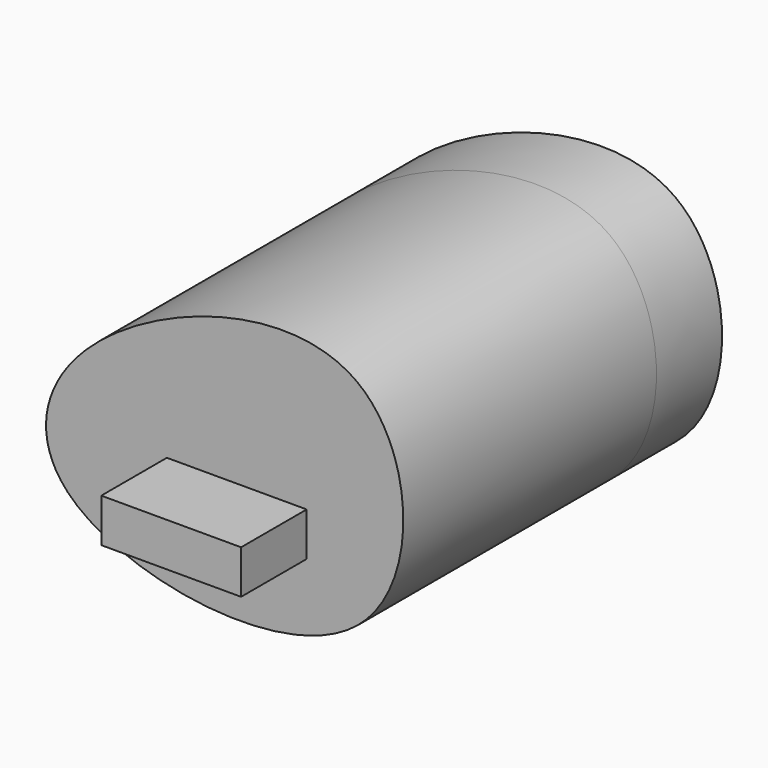
from build123d import *

# Parameters (mm, degrees)
F1_DEPTH = 25
F2_DEPTH = 96.5
F3_W     = 42.6337057725
F3_H     = 13.297191821
F4_DEPTH = 25


with BuildPart() as f1:
    # F0 (on Front) → F1 (new body)
    with BuildSketch(Plane.XZ):
        with BuildLine():
            add(Edge.make_bspline(
                [(-56.7976459861, 46.2436228991), (-37.148106518, 65.5450378595), (41.8380193275, 92.2991007532), (47.4172482458, -25.2698744471), (-77.3604939257, -6.4949832774), (-70.510562426, 32.7736537451), (-56.7976459861, 46.2436228991)],
                knots=[0, 0, 0, 0, 0.2780151532, 0.5215745751, 0.8059802587, 1, 1, 1, 1], degree=3))
        make_face()
    extrude(amount=F1_DEPTH)

    # F2 (add): a face of the model
    f2_faces = [f1.faces().sort_by_distance(p)[0] for p in [
        (-11.5259199294, -25, 28.7639480383),
    ]]
    extrude(f2_faces, amount=F2_DEPTH)

    # F3 (on face) → F4 (join)
    with BuildSketch(Plane.XZ.offset(121.5)):
        with Locations((-10.7288467698, 18.712206278)):
            Rectangle(F3_W, F3_H)
    extrude(amount=F4_DEPTH)


solid = f1.part
